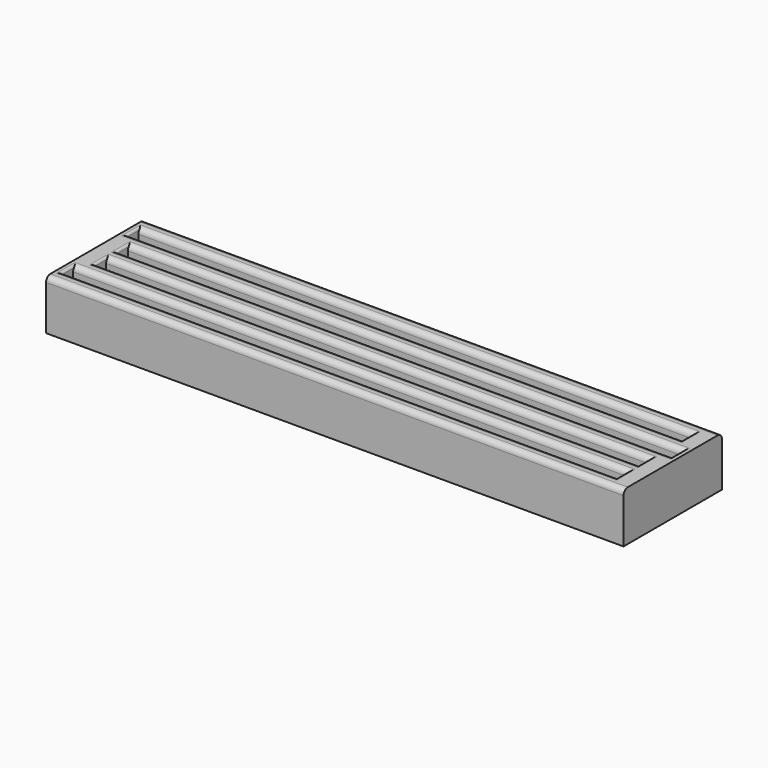
from build123d import *

# Parameters (mm, degrees)
SKETCH003_W   = 53.9
SKETCH003_H   = 11.48
SKETCH003_W_2 = 51.85
SKETCH003_H_2 = 1.194
SKETCH003_W_3 = 50.8
PAD001_DEPTH  = 4.67
FILLET_R      = 0.5
FILLET001_R   = 0.5
FILLET002_R   = 0.5
FILLET003_R   = 0.5
FILLET004_R   = 0.5
FILLET005_R   = 0.5
FILLET006_R   = 0.5
FILLET007_R   = 0.5
FILLET008_R   = 0.5
FILLET009_R   = 0.5
FILLET010_R   = 0.2
FILLET011_R   = 0.2
FILLET012_R   = 0.2
FILLET013_R   = 0.2
FILLET014_R   = 0.2
FILLET015_R   = 0.2
FILLET016_R   = 0.2
FILLET017_R   = 0.19


with BuildPart() as part:
    # Sketch003 → Pad001 (new body)
    with BuildSketch(Plane.XY.offset(0.28)):
        with Locations((27.89, 7.34)):
            Rectangle(SKETCH003_W, SKETCH003_H)
        with Locations((27.365, 11.1422)):
            Rectangle(SKETCH003_W_2, SKETCH003_H_2, mode=Mode.SUBTRACT)
        with Locations((28.415, 8.6074)):
            Rectangle(SKETCH003_W_2, SKETCH003_H_2, mode=Mode.SUBTRACT)
        with Locations((27.89, 6.0726)):
            Rectangle(SKETCH003_W_3, SKETCH003_H_2, mode=Mode.SUBTRACT)
        with Locations((27.365, 3.5378)):
            Rectangle(SKETCH003_W_2, SKETCH003_H_2, mode=Mode.SUBTRACT)
    extrude(amount=PAD001_DEPTH)

    # Fillet
    fillet_edges = [part.edges().sort_by_distance(p)[0] for p in [
        (27.89, 1.6, 4.95),
    ]]
    fillet(fillet_edges, radius=FILLET_R)

    # Fillet001
    fillet001_edges = [part.edges().sort_by_distance(p)[0] for p in [
        (27.365, 2.9408, 4.95),
    ]]
    fillet(fillet001_edges, radius=FILLET001_R)

    # Fillet002
    fillet002_edges = [part.edges().sort_by_distance(p)[0] for p in [
        (27.365, 4.1348, 4.95),
    ]]
    fillet(fillet002_edges, radius=FILLET002_R)

    # Fillet003
    fillet003_edges = [part.edges().sort_by_distance(p)[0] for p in [
        (27.89, 5.4756, 4.95),
    ]]
    fillet(fillet003_edges, radius=FILLET003_R)

    # Fillet004
    fillet004_edges = [part.edges().sort_by_distance(p)[0] for p in [
        (27.89, 6.6696, 4.95),
    ]]
    fillet(fillet004_edges, radius=FILLET004_R)

    # Fillet005
    fillet005_edges = [part.edges().sort_by_distance(p)[0] for p in [
        (28.415, 8.0104, 4.95),
    ]]
    fillet(fillet005_edges, radius=FILLET005_R)

    # Fillet006
    fillet006_edges = [part.edges().sort_by_distance(p)[0] for p in [
        (28.415, 9.2044, 4.95),
    ]]
    fillet(fillet006_edges, radius=FILLET006_R)

    # Fillet007
    fillet007_edges = [part.edges().sort_by_distance(p)[0] for p in [
        (27.365, 10.5452, 4.95),
    ]]
    fillet(fillet007_edges, radius=FILLET007_R)

    # Fillet008
    fillet008_edges = [part.edges().sort_by_distance(p)[0] for p in [
        (27.365, 11.7392, 4.95),
    ]]
    fillet(fillet008_edges, radius=FILLET008_R)

    # Fillet009
    fillet009_edges = [part.edges().sort_by_distance(p)[0] for p in [
        (27.89, 13.08, 4.95),
    ]]
    fillet(fillet009_edges, radius=FILLET009_R)

    # Fillet010
    fillet010_edges = [part.edges().sort_by_distance(p)[0] for p in [
        (53.29, 11.1422, 4.95),
    ]]
    fillet(fillet010_edges, radius=FILLET010_R)

    # Fillet011
    fillet011_edges = [part.edges().sort_by_distance(p)[0] for p in [
        (1.44, 11.1422, 4.95),
    ]]
    fillet(fillet011_edges, radius=FILLET011_R)

    # Fillet012
    fillet012_edges = [part.edges().sort_by_distance(p)[0] for p in [
        (2.49, 8.6074, 4.95),
    ]]
    fillet(fillet012_edges, radius=FILLET012_R)

    # Fillet013
    fillet013_edges = [part.edges().sort_by_distance(p)[0] for p in [
        (54.34, 8.6074, 4.95),
    ]]
    fillet(fillet013_edges, radius=FILLET013_R)

    # Fillet014
    fillet014_edges = [part.edges().sort_by_distance(p)[0] for p in [
        (2.49, 6.0726, 4.95),
    ]]
    fillet(fillet014_edges, radius=FILLET014_R)

    # Fillet015
    fillet015_edges = [part.edges().sort_by_distance(p)[0] for p in [
        (1.44, 3.5378, 4.95),
    ]]
    fillet(fillet015_edges, radius=FILLET015_R)

    # Fillet016
    fillet016_edges = [part.edges().sort_by_distance(p)[0] for p in [
        (53.29, 3.5378, 4.95),
    ]]
    fillet(fillet016_edges, radius=FILLET016_R)

    # Fillet017
    fillet017_edges = [part.edges().sort_by_distance(p)[0] for p in [
        (53.29, 6.0726, 4.95),
    ]]
    fillet(fillet017_edges, radius=FILLET017_R)


solid = part.part
